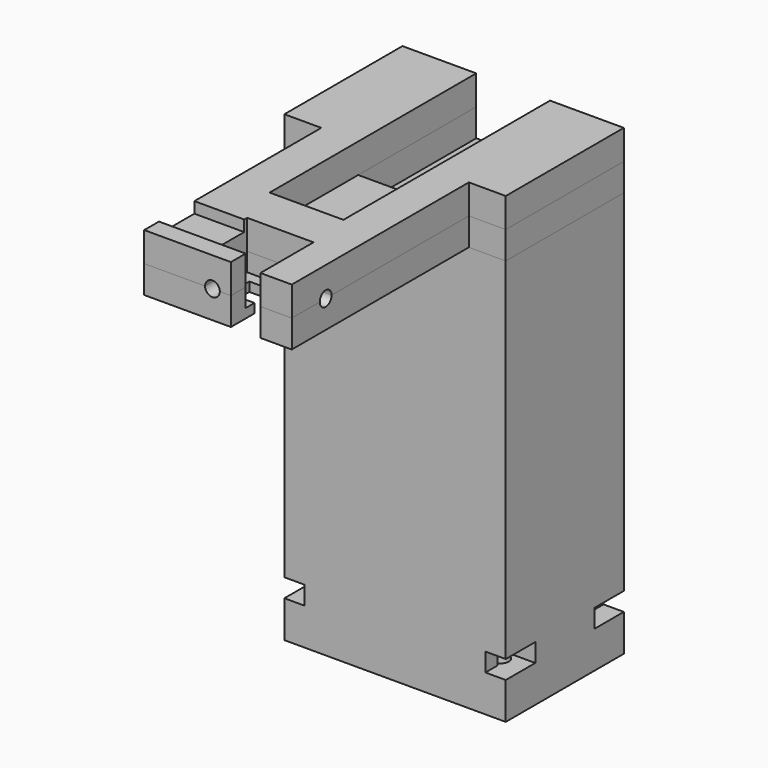
from build123d import *

# Parameters (mm, degrees)
F0_W      = 60
F0_H      = 40
F0_R      = 2.25
F1_DEPTH  = 10
F3_DEPTH  = 5
F4_W      = 60
F4_H      = 40
F4_R      = 2.25
F5_DEPTH  = 10
F6_W      = 60
F6_H      = 40
F7_DEPTH  = 85
F9_DEPTH  = 2.5
F11_DEPTH = 5
F13_DEPTH = 5
F15_DEPTH = 3
F16_R     = 2
F17_DEPTH = 10
F18_R     = 2
F19_DEPTH = 10


with BuildPart() as f1:
    # F0 (on Top) → F1 (new body)
    with BuildSketch(Plane.XY):
        Rectangle(F0_W, F0_H)
        with Locations((-23, -13)):
            Circle(F0_R, mode=Mode.SUBTRACT)
        with Locations((23, -13)):
            Circle(F0_R, mode=Mode.SUBTRACT)
        with Locations((-23, 13)):
            Circle(F0_R, mode=Mode.SUBTRACT)
        with Locations((23, 13)):
            Circle(F0_R, mode=Mode.SUBTRACT)
    extrude(amount=F1_DEPTH)

    # F2 (on face) → F3 (join)
    with BuildSketch(Plane.XY.offset(10)):
        Polygon((-24.5, 16), (-19, 16), (-19, 10), (-30, 10), (-30, -10), (-19, -10), (-19, -16), (-24.5, -16), (-24.5, -20), (24.5, -20), (24.5, -16), (19, -16), (19, -10), (30, -10), (30, 10), (19, 10), (19, 16), (24.5, 16), (24.5, 20), (-24.5, 20), align=None)
    extrude(amount=F3_DEPTH)

    # F4 (on face) → F5 (join)
    with BuildSketch(Plane.XY.offset(15)):
        Rectangle(F4_W, F4_H)
        with Locations((-23, -13)):
            Circle(F4_R, mode=Mode.SUBTRACT)
        with Locations((23, -13)):
            Circle(F4_R, mode=Mode.SUBTRACT)
        with Locations((-23, 13)):
            Circle(F4_R, mode=Mode.SUBTRACT)
        with Locations((23, 13)):
            Circle(F4_R, mode=Mode.SUBTRACT)
    extrude(amount=F5_DEPTH)

    # F6 (on face) → F7 (join)
    with BuildSketch(Plane.XY.offset(25)):
        Rectangle(F6_W, F6_H)
    extrude(amount=F7_DEPTH)


with BuildPart() as f9:
    # F8 (on face) → F9 (new body)
    with BuildSketch(Plane.XY.offset(110)):
        Polygon((-10, 20), (-30, 20), (-30, -20), (-20, -20), (-10, -20), align=None)
        Polygon((30, 20), (10, 20), (10, -20), (20, -20), (30, -20), align=None)
        Polygon((10, -20), (-10, -20), (-20, -20), (-20, -80), (3.5, -80), (3.5, -72), (-3.5, -72), (-3.5, -65), (3.5, -65), (11.5, -65), (11.5, -80), (20, -80), (20, -20), align=None)
    extrude(amount=F9_DEPTH)

    # F10 (on face) → F11 (join)
    with BuildSketch(Plane.XY.offset(112.5)):
        Polygon((-6.5, -62), (3.5, -62), (11.5, -62), (11.5, -65), (11.5, -80), (20, -80), (20, -20), (30, -20), (30, 20), (10, 20), (10, -20), (-10, -20), (-10, 20), (-30, 20), (-30, -20), (-20, -20), (-20, -80), (3.5, -80), (3.5, -75), (-6.5, -75), align=None)
    extrude(amount=F11_DEPTH)


with BuildPart() as f13:
    # F12 (on face) → F13 (new body)
    with BuildSketch(Plane.XY.offset(117.5)):
        Polygon((10, -50), (-10, -50), (-10, -20), (-10, 20), (-30, 20), (-30, -20), (-20, -20), (-20, -80), (3.5, -80), (3.5, -75), (-6.5, -75), (-6.5, -62), (11.5, -62), (11.5, -80), (20, -80), (20, -20), (30, -20), (30, 20), (10, 20), (10, -20), align=None)
    extrude(amount=F13_DEPTH)

    # F14 (on face) → F15 (join)
    with BuildSketch(Plane.XY.offset(122.5)):
        Polygon((-20, -20), (-20, -63), (-6.5, -63), (-6.5, -62), (11.5, -62), (11.5, -80), (20, -80), (20, -20), (30, -20), (30, 20), (10, 20), (10, -50), (-10, -50), (-10, 20), (-30, 20), (-30, -20), align=None)
        Polygon((-6.5, -75), (-20, -75), (-20, -80), (3.5, -80), (3.5, -75), align=None)
    extrude(amount=F15_DEPTH)


with BuildPart() as f17_tool:
    # F16 (on face) → F17 (new body)
    with BuildSketch(Plane.YZ.offset(20)):
        with Locations((-68.5, 117.5)):
            Circle(F16_R)
    extrude(amount=-F17_DEPTH)


with BuildPart() as f9_1:
    add(f9.part)

    # F17: cut by f17_tool
    add(f17_tool.part, mode=Mode.SUBTRACT)


with BuildPart() as f13_1:
    add(f13.part)

    # F17: cut by f17_tool
    add(f17_tool.part, mode=Mode.SUBTRACT)


with BuildPart() as f19_tool:
    # F18 (on face) → F19 (new body)
    with BuildSketch(Plane.XZ.offset(80)):
        with Locations((-1.5, 117.5)):
            Circle(F18_R)
    extrude(amount=-F19_DEPTH)


with BuildPart() as f9_2:
    add(f9_1.part)

    # F19: cut by f19_tool
    add(f19_tool.part, mode=Mode.SUBTRACT)


with BuildPart() as f13_2:
    add(f13_1.part)

    # F19: cut by f19_tool
    add(f19_tool.part, mode=Mode.SUBTRACT)


solid = Compound([f1.part, f9_2.part, f13_2.part])
